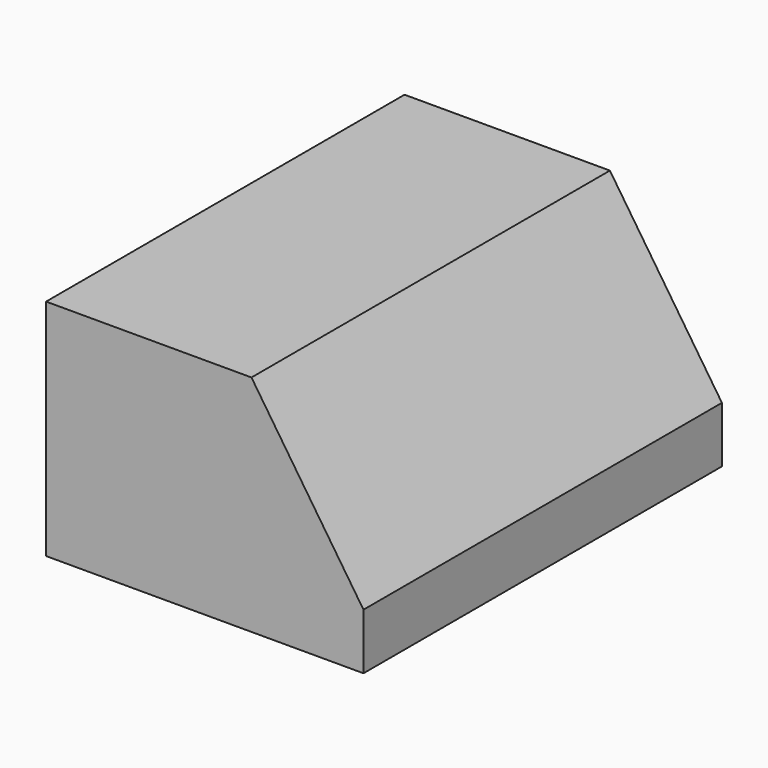
from build123d import *

# Parameters (mm, degrees)
F0_W     = 28.336821124
F0_H     = 40
F1_DEPTH = 20
F2_SIZE2 = 10
F2_SIZE  = 15


with BuildPart() as f1:
    # F0 (on Top) → F1 (new body)
    with BuildSketch(Plane.XY):
        with Locations((-0.1317989081, -25)):
            Rectangle(F0_W, F0_H)
    extrude(amount=F1_DEPTH)

    # F2
    f2_edges = [f1.edges().sort_by_distance(p)[0] for p in [
        (14.036612, -25, 20),
    ]]
    f2_side = f1.faces().sort_by_distance((14.036612, -25, 10))[0]
    chamfer(f2_edges, length=F2_SIZE, length2=F2_SIZE2, reference=f2_side)


solid = f1.part
